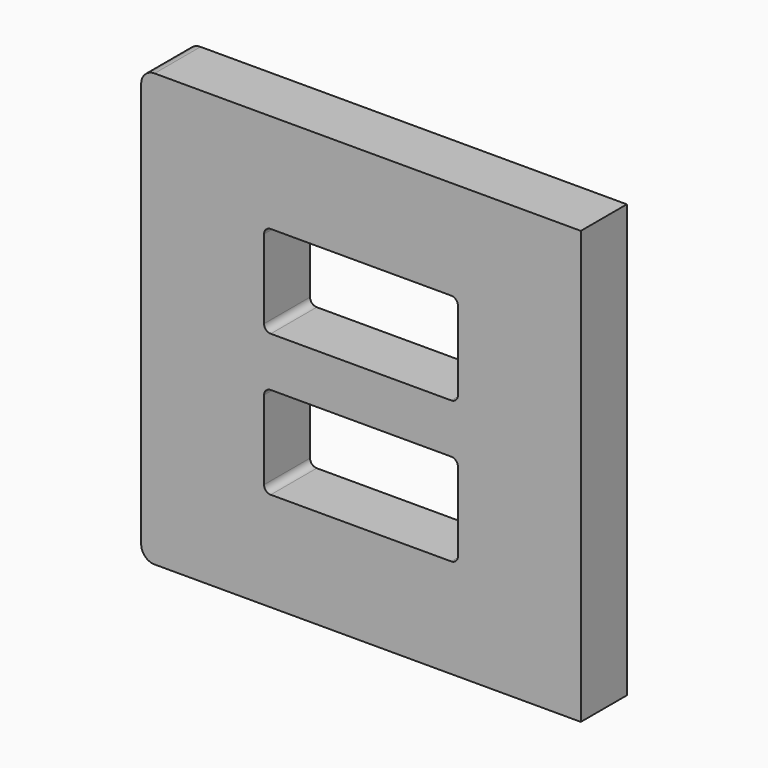
from build123d import *

# Parameters (mm, degrees)
F1_DEPTH = 4.3
F2_W     = 14.5
F2_H     = 6.9
F3_DEPTH = 25
F4_R     = 0.5


with BuildPart() as f1:
    # F0 (on Front) → F1 (new body)
    with BuildSketch(Plane.XZ):
        with BuildLine():
            Line((16.44, -16.165), (16.44, 16.165))
            Line((16.44, 16.165), (-15.44, 16.165))
            ThreePointArc((-15.44, 16.165), (-16.147107, 15.872107), (-16.44, 15.165))
            Line((-16.44, 15.165), (-16.44, -15.165))
            ThreePointArc((-16.44, -15.165), (-16.147107, -15.872107), (-15.44, -16.165))
            Line((-15.44, -16.165), (16.44, -16.165))
        make_face()
    extrude(amount=F1_DEPTH)

    # F2 (on face) → F3 (cut)
    with BuildSketch(Plane.XZ.offset(4.3)):
        with Locations((0, 5.3)):
            Rectangle(F2_W, F2_H)
        with Locations((0, -5.3)):
            Rectangle(F2_W, F2_H)
    extrude(amount=-F3_DEPTH, mode=Mode.SUBTRACT)

    # F4
    f4_edges = [f1.edges().sort_by_distance(p)[0] for p in [
        (7.25, -2.15, 8.75),
        (7.25, -2.15, 1.85),
        (-7.25, -2.15, 1.85),
        (-7.25, -2.15, 8.75),
        (-7.25, -2.15, -1.85),
        (7.25, -2.15, -1.85),
        (7.25, -2.15, -8.75),
        (-7.25, -2.15, -8.75),
    ]]
    fillet(f4_edges, radius=F4_R)


solid = f1.part
